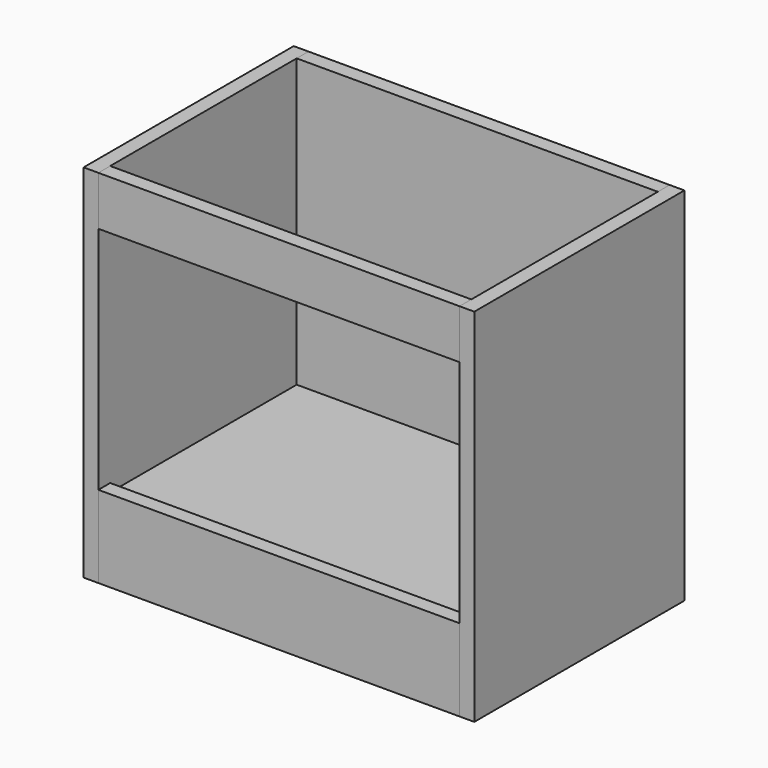
from build123d import *

# Parameters (mm, degrees)
F0_W          = 440
F0_H          = 18
F1_DEPTH      = 120
F1_DEPTH_BACK = 320
F2_DEPTH      = 120
F2_DEPTH_BACK = 320
F3_W          = 18
F3_H          = 60
F4_DEPTH      = 220
F4_DEPTH_BACK = 220
F3_W_2        = 284
F3_H_2        = 18
F5_DEPTH      = 220
F5_DEPTH_BACK = 220


with BuildPart() as f1:
    # F0 (on Top) → F1 (new body, two sides)
    with BuildSketch(Plane.XY) as f1_sk:
        with Locations((0, 171)):
            Rectangle(F0_W, F0_H)
    extrude(amount=F1_DEPTH)
    extrude(f1_sk.sketch, amount=-F1_DEPTH_BACK)


with BuildPart() as f2:
    # F0 (on Top) → F2 (new body, two sides)
    with BuildSketch(Plane.XY) as f2_sk:
        Polygon((-238, 180), (-238, -140), (-220, -140), (-220, 162), (-220, 180), align=None)
        Polygon((220, 180), (220, 162), (220, -140), (238, -140), (238, 180), align=None)
    extrude(amount=F2_DEPTH)
    extrude(f2_sk.sketch, amount=-F2_DEPTH_BACK)


with BuildPart() as f4:
    # F3 (on Right) → F4 (new body, two sides)
    with BuildSketch(Plane.YZ) as f4_sk:
        with Locations((-131, 90)):
            Rectangle(F3_W, F3_H)
        Polygon((-122, -248), (-122, -230), (-122, -220), (-140, -220), (-140, -320), (-122, -320), align=None)
    extrude(amount=F4_DEPTH)
    extrude(f4_sk.sketch, amount=-F4_DEPTH_BACK)


with BuildPart() as f5:
    # F3 (on Right) → F5 (new body, two sides)
    with BuildSketch(Plane.YZ) as f5_sk:
        with Locations((20, -239)):
            Rectangle(F3_W_2, F3_H_2)
    extrude(amount=F5_DEPTH)
    extrude(f5_sk.sketch, amount=-F5_DEPTH_BACK)


solid = Compound([f1.part, f2.part, f4.part, f5.part])
